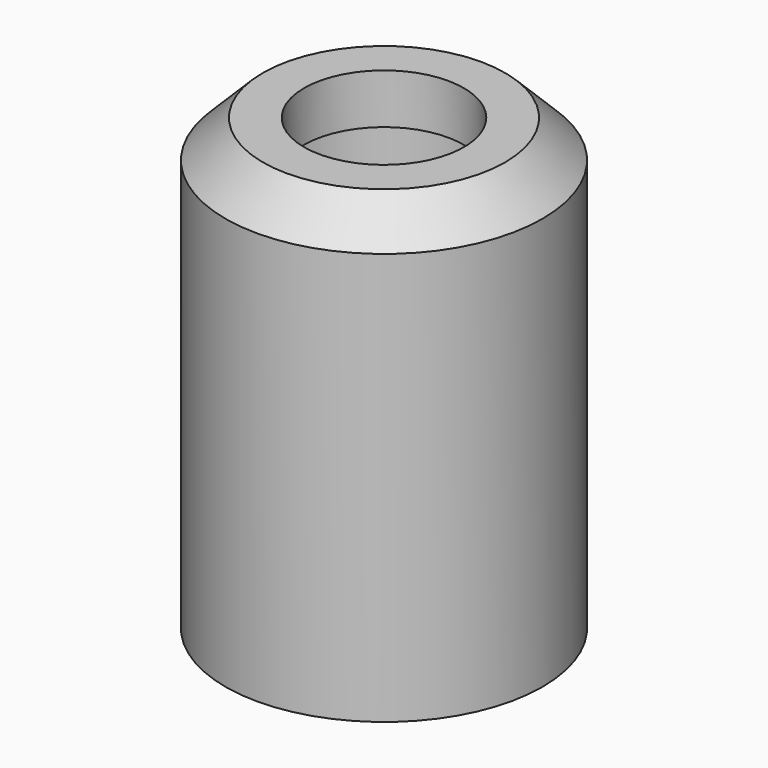
from build123d import *

# Parameters (mm, degrees)
SKETCH011_R  = 3.2
POCKET_DEPTH = 18.001
CHAMFER_SIZE = 1.5


with BuildPart() as part:
    # Sketch010 → Revolution001 (revolve)
    with BuildSketch(Plane.XZ):
        Polygon((4.2, 20), (4.2, 36), (0, 36), (0, 38), (6.35, 38), (6.35, 20), align=None)
    revolve(axis=Axis((0, 0, 0), (0, 0, 1)))

    # Sketch011 → Pocket (cut, through all)
    with BuildSketch(Plane(origin=(0, 0, 38), x_dir=(-1, 0, 0), z_dir=(0, 0, 1))):
        Circle(SKETCH011_R)
    extrude(amount=-POCKET_DEPTH, mode=Mode.SUBTRACT)

    # Chamfer
    chamfer_edges = [part.edges().sort_by_distance(p)[0] for p in [
        (-6.35, 0, 38),
    ]]
    chamfer(chamfer_edges, length=CHAMFER_SIZE)


solid = part.part
